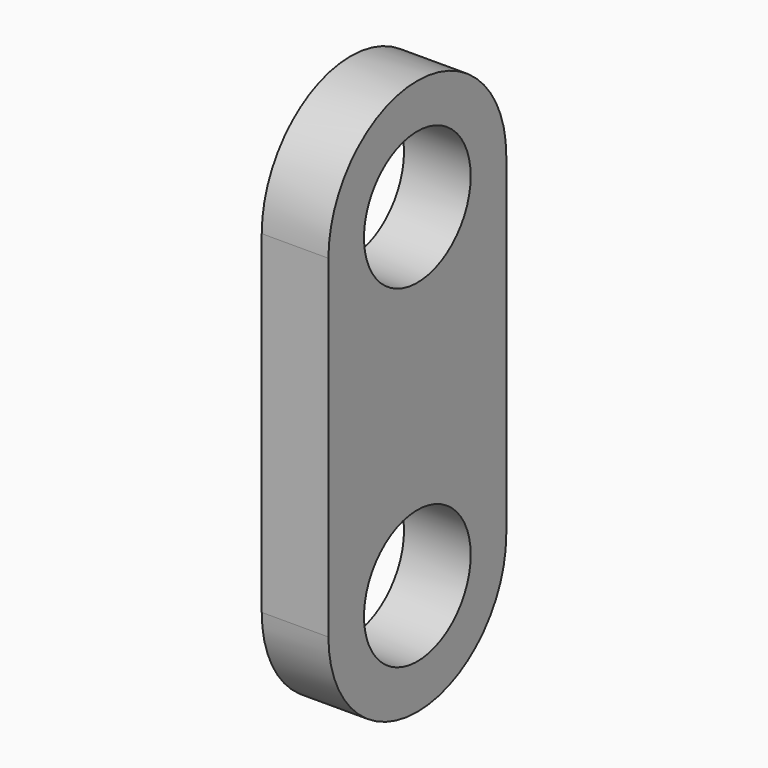
from build123d import *

# Parameters (mm, degrees)
F0_R     = 3
F1_DEPTH = 3


with BuildPart() as f1:
    # F0 (on Right) → F1 (new body)
    with BuildSketch(Plane.YZ):
        with BuildLine():
            ThreePointArc((5, 0), (0, 5), (-5, 0))
            Line((-5, 0), (-5, -15))
            ThreePointArc((-5, -15), (0, -20), (5, -15))
            Line((5, -15), (5, 0))
        make_face()
        with Locations((0, -15)):
            Circle(F0_R, mode=Mode.SUBTRACT)
        Circle(F0_R, mode=Mode.SUBTRACT)
    extrude(amount=F1_DEPTH)


solid = f1.part
